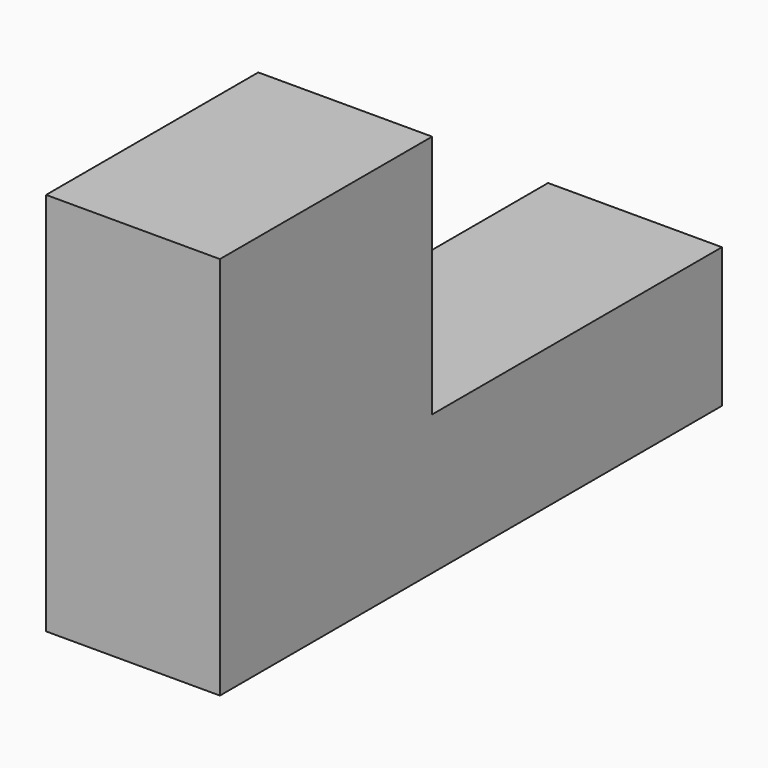
from build123d import *

# Parameters (mm, degrees)
F0_W     = 75.9968
F0_H     = 29.5656
F1_DEPTH = 137.16
F2_W     = 75.9968
F2_H     = 115.951
F3_DEPTH = 138.43
F4_W     = 75.9968
F4_H     = 158.369
F5_DEPTH = 31.496


with BuildPart() as f1:
    # F0 (on Front) → F1 (new body, symmetric)
    with BuildSketch(Plane.XZ):
        Rectangle(F0_W, F0_H)
    extrude(amount=F1_DEPTH, both=True)

    # F2 (on face) → F3 (join)
    with BuildSketch(Plane.XY.offset(14.7828)):
        with Locations((0, -79.1845)):
            Rectangle(F2_W, F2_H)
    extrude(amount=F3_DEPTH)

    # F4 (on face) → F5 (join)
    with BuildSketch(Plane.XY.offset(14.7828)):
        with Locations((0, 57.9755)):
            Rectangle(F4_W, F4_H)
    extrude(amount=F5_DEPTH)


solid = f1.part
